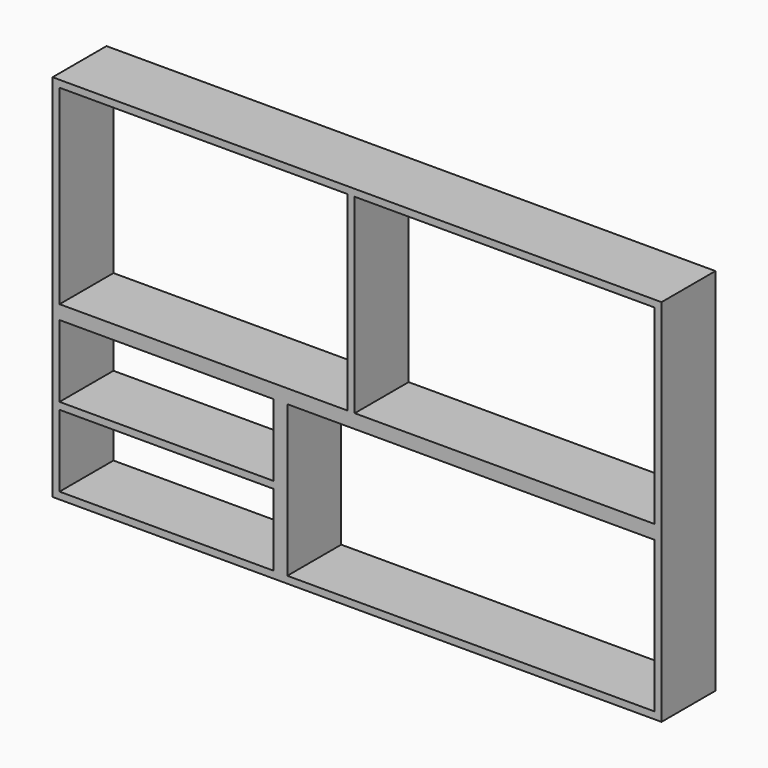
from build123d import *

# Parameters (mm, degrees)
F0_W     = 787.4
F0_H     = 520.7
F0_W_2   = 819.15
F0_W_3   = 622.3
F0_H_2   = 450.85
F0_W_4   = 584.2
F0_H_3   = 196.85
F0_W_5   = 1041.4
F0_W_6   = 1003.3
F0_H_4   = 412.75
F1_DEPTH = 184.15


with BuildPart() as f1:
    # F0 (on Front) → F1 (new body)
    with BuildSketch(Plane.XZ):
        Polygon((831.85, -279.4), (831.85, 279.4), (-831.85, 279.4), (-831.85, -279.4), (-209.55, -279.4), align=None)
        with Locations((-419.1, 0)):
            Rectangle(F0_W, F0_H, mode=Mode.SUBTRACT)
        with Locations((403.225, 0)):
            Rectangle(F0_W_2, F0_H, mode=Mode.SUBTRACT)
        with Locations((-520.7, -504.825)):
            Rectangle(F0_W_3, F0_H_2)
        with Locations((-520.7, -612.775)):
            Rectangle(F0_W_4, F0_H_3, mode=Mode.SUBTRACT)
        with Locations((-520.7, -396.875)):
            Rectangle(F0_W_4, F0_H_3, mode=Mode.SUBTRACT)
        with Locations((311.15, -504.825)):
            Rectangle(F0_W_5, F0_H_2)
        with Locations((311.15, -504.825)):
            Rectangle(F0_W_6, F0_H_4, mode=Mode.SUBTRACT)
    extrude(amount=-F1_DEPTH)


solid = f1.part
